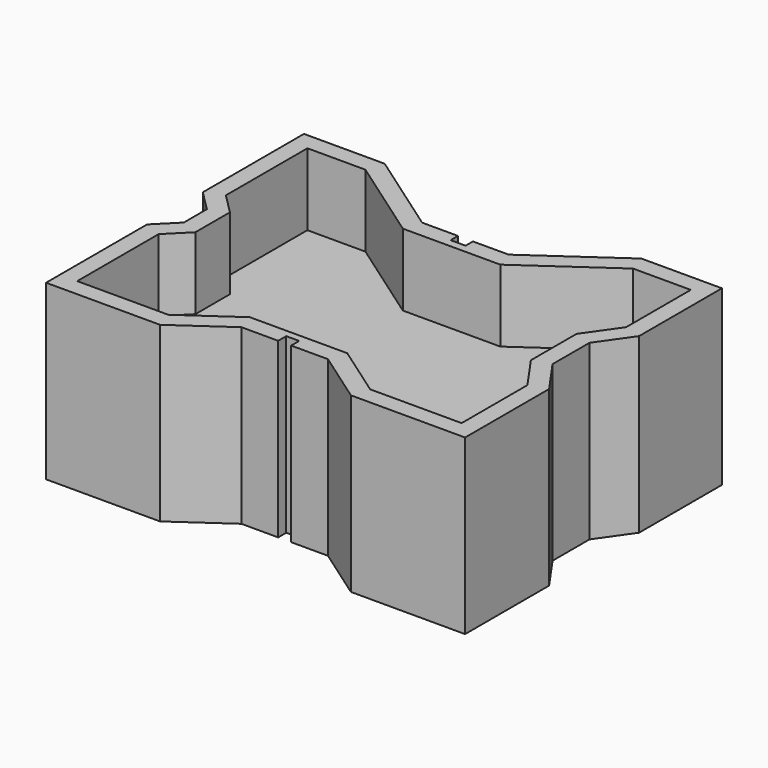
from build123d import *

# Parameters (mm, degrees)
F1_DEPTH = 38.1
F2_DEPTH = 6.35


with BuildPart() as f1:
    # F0 (on Top) → F1 (new body, symmetric)
    with BuildSketch(Plane.XY):
        Polygon((-83.179305, 18.750736), (-83.179305, 6.050736), (-92.159561, -2.92952), (-92.159561, -58.50472), (-42.019961, -58.50472), (-19.05, -42.42098), (-2.855429, -42.42098), (-2.855429, -37.99941), (2.855429, -37.99941), (2.855429, -42.42098), (19.05, -42.42098), (42.019961, -58.50472), (92.286561, -58.50472), (92.286561, -12.27672), (81.638513, 2.930269), (81.638513, 23.250269), (91.836702, 37.814792), (91.836702, 83.382392), (56.403702, 83.382392), (18.95207, 57.158478), (3.221597, 57.158478), (3.221597, 53.102199), (-3.36058, 53.102199), (-3.36058, 57.158478), (-19.14793, 57.158478), (-56.599561, 83.382392), (-92.159561, 83.382392), (-92.159561, 27.730992), align=None)
        Polygon((-84.539561, 30.8873), (-84.539561, 75.762392), (-59.002138, 75.762392), (-21.550506, 49.538478), (21.354647, 49.538478), (58.806279, 75.762392), (84.216702, 75.762392), (84.216702, 40.217369), (74.018513, 25.652846), (74.018513, 0.527692), (84.666561, -14.679297), (84.666561, -50.88472), (44.422538, -50.88472), (21.452577, -34.80098), (-21.452577, -34.80098), (-44.422538, -50.88472), (-84.539561, -50.88472), (-84.539561, -6.085827), (-75.559305, 2.894429), (-75.559305, 21.907044), align=None, mode=Mode.SUBTRACT)
    extrude(amount=F1_DEPTH, both=True)

    # F0 (on Top) → F2 (join)
    with BuildSketch(Plane.XY):
        Polygon((-59.002138, 75.762392), (-84.539561, 75.762392), (-84.539561, 30.8873), (-75.559305, 21.907044), (-75.559305, 2.894429), (-84.539561, -6.085827), (-84.539561, -50.88472), (-44.422538, -50.88472), (-21.452577, -34.80098), (21.452577, -34.80098), (44.422538, -50.88472), (84.666561, -50.88472), (84.666561, -14.679297), (74.018513, 0.527692), (74.018513, 25.652846), (84.216702, 40.217369), (84.216702, 75.762392), (58.806279, 75.762392), (21.354647, 49.538478), (-21.550506, 49.538478), align=None)
    extrude(amount=F2_DEPTH)


solid = f1.part
